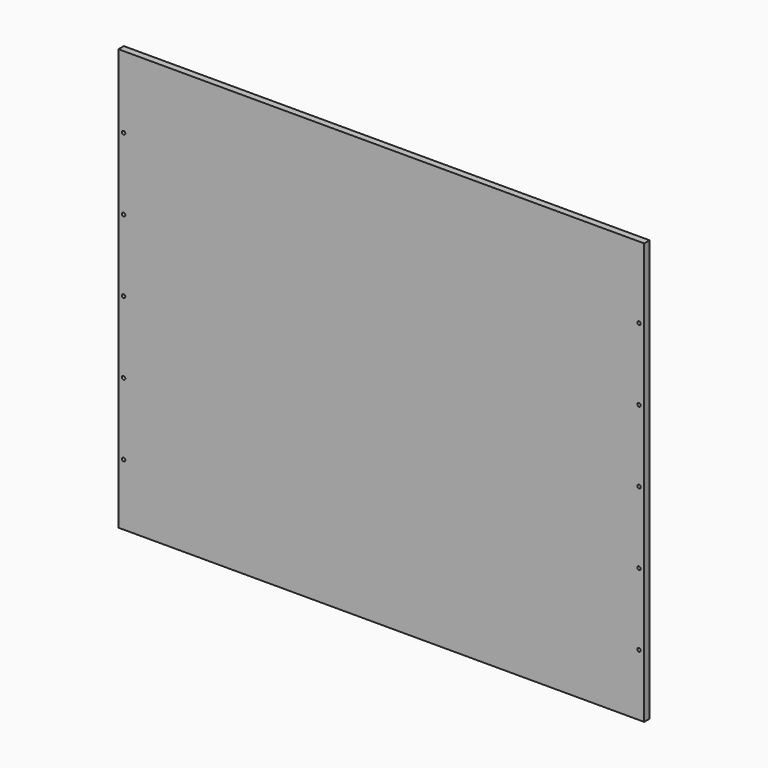
from build123d import *

# Parameters (mm, degrees)
F0_W     = 495.3
F0_H     = 396.875
F1_DEPTH = 6.35
F2_R     = 1.5875
F3_DEPTH = 25.4


with BuildPart() as f1:
    # F0 (on Front) → F1 (new body)
    with BuildSketch(Plane.XZ):
        Rectangle(F0_W, F0_H)
    extrude(amount=F1_DEPTH)

    # F2 (on face) → F3 (cut)
    with BuildSketch(Plane.XZ.offset(6.35)):
        with Locations((-242.7732, 130.6957)):
            Circle(F2_R)
        with Locations((-242.7732, 62.9539)):
            Circle(F2_R)
        with Locations((-242.7732, -4.7879)):
            Circle(F2_R)
        with Locations((-242.7732, -72.5297)):
            Circle(F2_R)
        with Locations((-242.7732, -140.2715)):
            Circle(F2_R)
        with Locations((242.7732, 130.6957)):
            Circle(F2_R)
        with Locations((242.7732, 62.9539)):
            Circle(F2_R)
        with Locations((242.7732, -4.7879)):
            Circle(F2_R)
        with Locations((242.7732, -72.5297)):
            Circle(F2_R)
        with Locations((242.7732, -140.2715)):
            Circle(F2_R)
    extrude(amount=-F3_DEPTH, mode=Mode.SUBTRACT)


solid = f1.part
